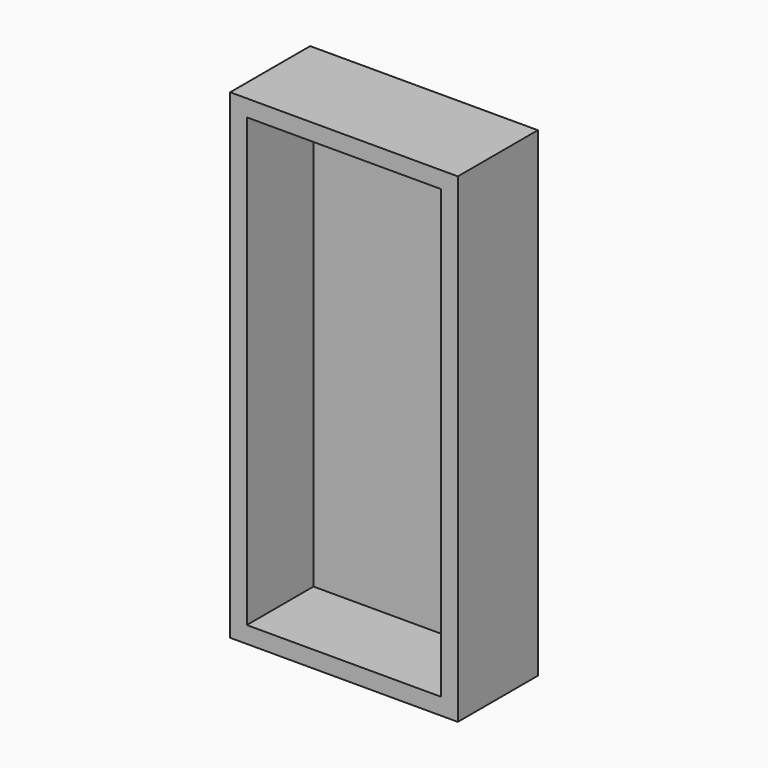
from build123d import *

# Parameters (mm, degrees)
F0_W     = 29.6243801713
F0_H     = 68.123050034
F1_DEPTH = 12.7
F2_T     = 2.54


with BuildPart() as f1:
    # F0 (on Front) → F1 (new body)
    with BuildSketch(Plane.XZ):
        with Locations((-14.8121900856, 34.061525017)):
            Rectangle(F0_W, F0_H)
    extrude(amount=F1_DEPTH)

    # F2
    f2_openings = [f1.faces().sort_by_distance(p)[0] for p in [
        (-14.81219, -12.7, 34.061525),
    ]]
    offset(amount=F2_T, openings=f2_openings, kind=Kind.INTERSECTION)


solid = f1.part
